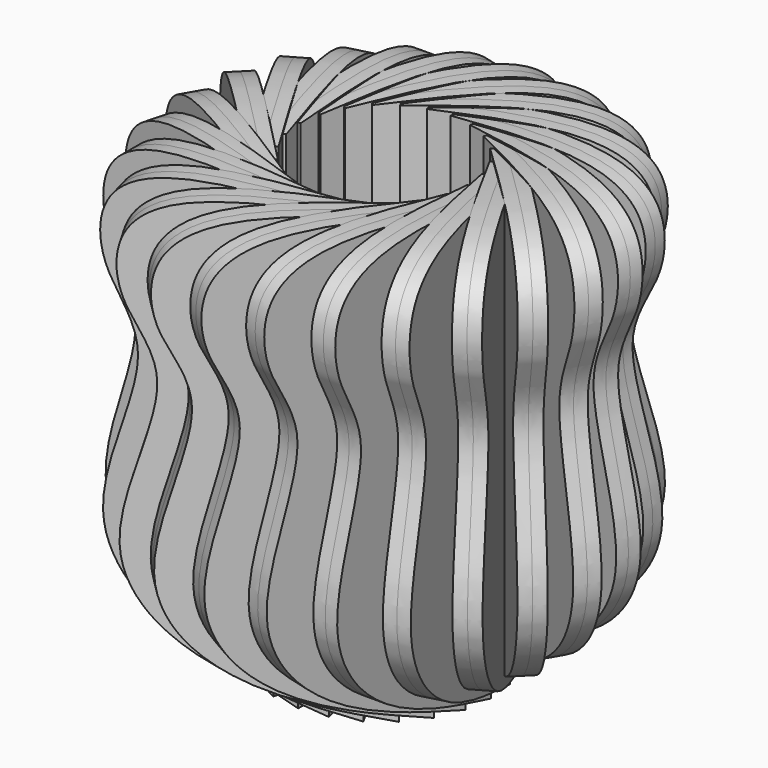
from build123d import *

# Parameters (mm, degrees)
F1_DEPTH      = 3.175
F1_DEPTH_BACK = 3.175
F4_COUNT      = 24


with BuildPart() as f1:
    # F0 (on Front) → F1 (new body, two sides)
    with BuildSketch(Plane.XZ) as f1_sk:
        with BuildLine():
            add(Edge.make_bspline(
                [(0, 0), (14.443366383, 1.1312713302), (37.7774719315, 2.9589065175), (52.9274617755, -6.8301059923), (51.9348218378, -25.1960040891), (37.1466154001, -41.9700632326), (59.3926097052, -82.1723459855), (35.059863237, -109.5213987242), (12.0212749854, -115.3755417597), (0, -118.4301674366)],
                knots=[0, 0, 0, 0, 0.1713627096, 0.2768465084, 0.3854808605, 0.5083551398, 0.6814966209, 0.8338085362, 1, 1, 1, 1], degree=3))
            Line((0, 0), (0, -118.4301674366))
        make_face()
    extrude(amount=F1_DEPTH)
    extrude(f1_sk.sketch, amount=-F1_DEPTH_BACK)


with BuildPart() as f4_1:
    # F4: instance of F1
    add(f1.part.rotate(Axis((0, -25.4, 24.8561576009), (0, 0, 1)), 1 * 360 / F4_COUNT))


with BuildPart() as f4_2:
    # F4: instance of F1
    add(f1.part.rotate(Axis((0, -25.4, 24.8561576009), (0, 0, 1)), 2 * 360 / F4_COUNT))


with BuildPart() as f4_3:
    # F4: instance of F1
    add(f1.part.rotate(Axis((0, -25.4, 24.8561576009), (0, 0, 1)), 3 * 360 / F4_COUNT))


with BuildPart() as f4_4:
    # F4: instance of F1
    add(f1.part.rotate(Axis((0, -25.4, 24.8561576009), (0, 0, 1)), 4 * 360 / F4_COUNT))


with BuildPart() as f4_5:
    # F4: instance of F1
    add(f1.part.rotate(Axis((0, -25.4, 24.8561576009), (0, 0, 1)), 5 * 360 / F4_COUNT))


with BuildPart() as f4_6:
    # F4: instance of F1
    add(f1.part.rotate(Axis((0, -25.4, 24.8561576009), (0, 0, 1)), 6 * 360 / F4_COUNT))


with BuildPart() as f4_7:
    # F4: instance of F1
    add(f1.part.rotate(Axis((0, -25.4, 24.8561576009), (0, 0, 1)), 7 * 360 / F4_COUNT))


with BuildPart() as f4_8:
    # F4: instance of F1
    add(f1.part.rotate(Axis((0, -25.4, 24.8561576009), (0, 0, 1)), 8 * 360 / F4_COUNT))


with BuildPart() as f4_9:
    # F4: instance of F1
    add(f1.part.rotate(Axis((0, -25.4, 24.8561576009), (0, 0, 1)), 9 * 360 / F4_COUNT))


with BuildPart() as f4_10:
    # F4: instance of F1
    add(f1.part.rotate(Axis((0, -25.4, 24.8561576009), (0, 0, 1)), 10 * 360 / F4_COUNT))


with BuildPart() as f4_11:
    # F4: instance of F1
    add(f1.part.rotate(Axis((0, -25.4, 24.8561576009), (0, 0, 1)), 11 * 360 / F4_COUNT))


with BuildPart() as f4_12:
    # F4: instance of F1
    add(f1.part.rotate(Axis((0, -25.4, 24.8561576009), (0, 0, 1)), 12 * 360 / F4_COUNT))


with BuildPart() as f4_13:
    # F4: instance of F1
    add(f1.part.rotate(Axis((0, -25.4, 24.8561576009), (0, 0, 1)), 13 * 360 / F4_COUNT))


with BuildPart() as f4_14:
    # F4: instance of F1
    add(f1.part.rotate(Axis((0, -25.4, 24.8561576009), (0, 0, 1)), 14 * 360 / F4_COUNT))


with BuildPart() as f4_15:
    # F4: instance of F1
    add(f1.part.rotate(Axis((0, -25.4, 24.8561576009), (0, 0, 1)), 15 * 360 / F4_COUNT))


with BuildPart() as f4_16:
    # F4: instance of F1
    add(f1.part.rotate(Axis((0, -25.4, 24.8561576009), (0, 0, 1)), 16 * 360 / F4_COUNT))


with BuildPart() as f4_17:
    # F4: instance of F1
    add(f1.part.rotate(Axis((0, -25.4, 24.8561576009), (0, 0, 1)), 17 * 360 / F4_COUNT))


with BuildPart() as f4_18:
    # F4: instance of F1
    add(f1.part.rotate(Axis((0, -25.4, 24.8561576009), (0, 0, 1)), 18 * 360 / F4_COUNT))


with BuildPart() as f4_19:
    # F4: instance of F1
    add(f1.part.rotate(Axis((0, -25.4, 24.8561576009), (0, 0, 1)), 19 * 360 / F4_COUNT))


with BuildPart() as f4_20:
    # F4: instance of F1
    add(f1.part.rotate(Axis((0, -25.4, 24.8561576009), (0, 0, 1)), 20 * 360 / F4_COUNT))


with BuildPart() as f4_21:
    # F4: instance of F1
    add(f1.part.rotate(Axis((0, -25.4, 24.8561576009), (0, 0, 1)), 21 * 360 / F4_COUNT))


with BuildPart() as f4_22:
    # F4: instance of F1
    add(f1.part.rotate(Axis((0, -25.4, 24.8561576009), (0, 0, 1)), 22 * 360 / F4_COUNT))


with BuildPart() as f4_23:
    # F4: instance of F1
    add(f1.part.rotate(Axis((0, -25.4, 24.8561576009), (0, 0, 1)), 23 * 360 / F4_COUNT))


solid = Compound([f1.part, f4_1.part, f4_2.part, f4_3.part, f4_4.part, f4_5.part, f4_6.part, f4_7.part, f4_8.part, f4_9.part, f4_10.part, f4_11.part, f4_12.part, f4_13.part, f4_14.part, f4_15.part, f4_16.part, f4_17.part, f4_18.part, f4_19.part, f4_20.part, f4_21.part, f4_22.part, f4_23.part])
